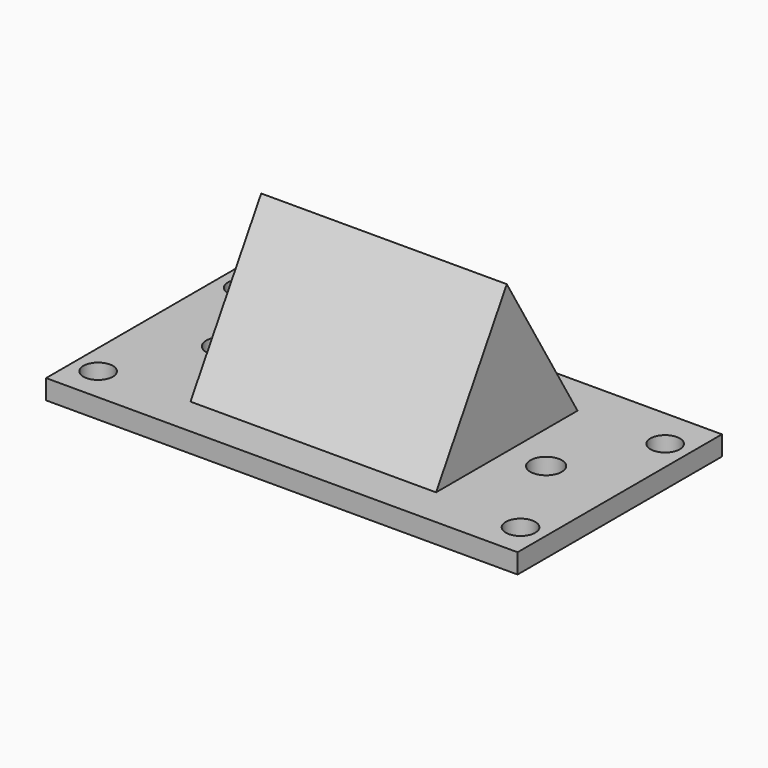
from build123d import *

# Parameters (mm, degrees)
F0_W     = 48
F0_H     = 26
F0_R     = 1.5
F0_R_2   = 1.6
F1_DEPTH = 2
F2_W     = 25
F2_H     = 18
F3_DEPTH = 15
F5_DEPTH = 25


with BuildPart() as f1:
    # F0 (on Top) → F1 (new body)
    with BuildSketch(Plane.XY):
        Rectangle(F0_W, F0_H)
        with Locations((-21.5, -9.5)):
            Circle(F0_R, mode=Mode.SUBTRACT)
        with Locations((21.5, -9.5)):
            Circle(F0_R, mode=Mode.SUBTRACT)
        with Locations((-16.5, 0)):
            Circle(F0_R_2, mode=Mode.SUBTRACT)
        with Locations((-21.5, 8.9)):
            Circle(F0_R, mode=Mode.SUBTRACT)
        with Locations((16.5, 0)):
            Circle(F0_R_2, mode=Mode.SUBTRACT)
        with Locations((21.5, 8.9)):
            Circle(F0_R, mode=Mode.SUBTRACT)
    extrude(amount=F1_DEPTH)

    # F2 (on face) → F3 (join)
    with BuildSketch(Plane.XY.offset(2)):
        Rectangle(F2_W, F2_H)
    extrude(amount=F3_DEPTH)

    # F4 (on face) → F5 (cut)
    with BuildSketch(Plane(origin=(-12.5, 0, 0), x_dir=(0, -1, 0), z_dir=(-1, 0, 0))):
        Polygon((-9, 17), (-9, 2), (0, 17), align=None)
        Polygon((9, 17), (0, 17), (9, 2), align=None)
    extrude(amount=-F5_DEPTH, mode=Mode.SUBTRACT)


solid = f1.part
